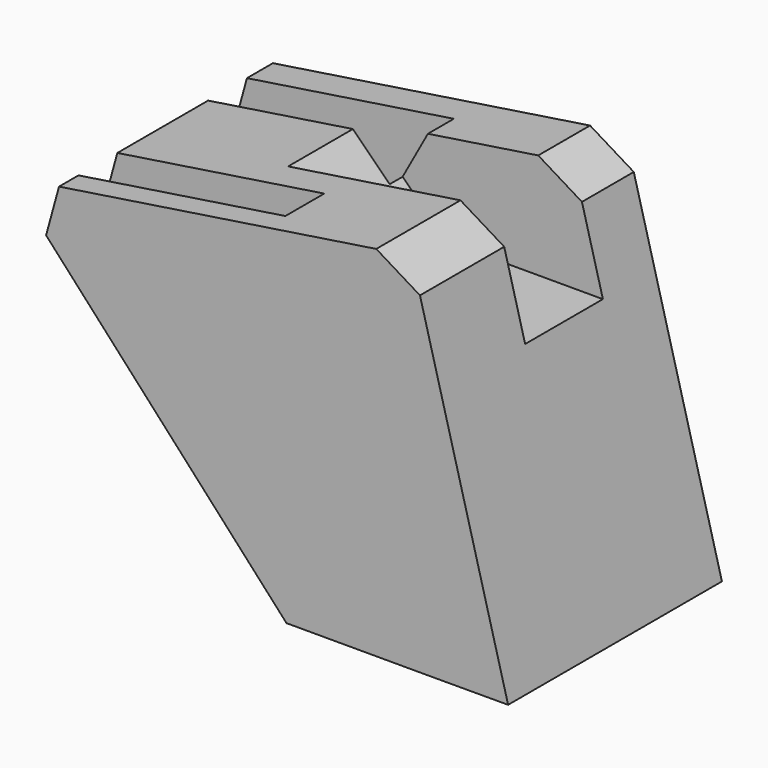
from build123d import *

# Parameters (mm, degrees)
PAD036_DEPTH = 6
PAD037_DEPTH = 6
PAD038_DEPTH = 12
PAD014_DEPTH = 20
PAD012_DEPTH = 33
PAD013_DEPTH = 20
PAD001_DEPTH = 33


with BuildPart() as pad036:
    # Sketch040 → Pad036 (new body)
    with BuildSketch(Plane.XZ.offset(4)):
        Polygon((-22.876627, -50.458862), (-2.795745, -40.418423), (3.522805, -28.90654), (-39.408733, -32.801537), align=None)
    extrude(amount=PAD036_DEPTH)


with BuildPart() as pad037:
    # Sketch041 → Pad037 (new body)
    with BuildSketch(Plane.XZ.offset(24)):
        Polygon((-22.876627, -50.458862), (-2.795745, -40.418423), (3.522805, -28.90654), (-39.408733, -32.801537), align=None)
    extrude(amount=PAD037_DEPTH)


with BuildPart() as pad038:
    # Sketch042 → Pad038 (new body)
    with BuildSketch(Plane.XZ.offset(8)):
        Polygon((26.854265, -42.508881), (4.226509, -42.508881), (-12.077076, -26.263317), (32.65625, -19.126871), align=None)
    extrude(amount=PAD038_DEPTH)


with BuildPart() as pad014:
    # Sketch018 → Pad014 (new body)
    with BuildSketch(Plane(origin=(10, -7, 0), x_dir=(1, 0, 0), z_dir=(0, -1, 0))):
        Polygon((12.921668, -76.043343), (12.921668, -72.681298), (10.907037, -71.064545), (12.949577, -67.987406), (17.894252, -67.987406), (19.953335, -71.012405), (17.993304, -72.648705), (17.981073, -76.043343), align=None)
    extrude(amount=PAD014_DEPTH)


with BuildPart() as pad012:
    # Sketch016 → Pad012 (new body)
    with BuildSketch(Plane.XZ):
        Polygon((31.922119, -73.764191), (34.715668, -84.347412), (31.00419, -84.347412), (29.994871, -83.010223), (29.004835, -82.997353), (29.97435, -84.356453), (27.001257, -84.356453), (25.99424, -83.013763), (24.977634, -83.013763), (26.003832, -84.375633), (23.007538, -84.375633), (22.019703, -83.023636), (20.974325, -83.023636), (22.000523, -84.366325), (19.017838, -84.366325), (17.99164, -83.004456), (16.984625, -83.004456), (18.00123, -84.366325), (15.032244, -84.366325), (14.013124, -83.020378), (12.982291, -83.020378), (14.00141, -84.379204), (12.681671, -84.379204), (4.650895, -73.764191), align=None)
    extrude(amount=PAD012_DEPTH)


with BuildPart() as fusion:
    # Sketch017 → Pad013 (new body)
    with BuildSketch(Plane(origin=(-4, -7, 0), x_dir=(1, 0, 0), z_dir=(0, -1, 0))):
        Polygon((12.921668, -76.043343), (12.921668, -72.681298), (10.907037, -71.064545), (12.949577, -67.987406), (17.894252, -67.987406), (19.953335, -71.012405), (17.993304, -72.648705), (17.981073, -76.043343), align=None)
    extrude(amount=PAD013_DEPTH)

    # Fusion001: union Pad012
    add(pad012.part)

    # Fusion: union Pad014
    add(pad014.part)


with BuildPart() as cut009:
    # Sketch001 → Pad001 (new body)
    with BuildSketch(Plane(origin=(-15, 0, -10), x_dir=(0.819152, 0, 0.573576), z_dir=(0, -1, 0))):
        Polygon((-26.184557, -19.824878), (-21.536683, -15.979609), (13.963177, -33.561758), (16.497322, -39.355457), (1.912507, -79.157962), (-20.506964, -63.527428), align=None)
    extrude(amount=PAD001_DEPTH)

    # Cut: cut Fusion
    add(fusion.part, mode=Mode.SUBTRACT)

    # Cut007: cut Pad038
    add(pad038.part, mode=Mode.SUBTRACT)

    # Cut008: cut Pad037
    add(pad037.part, mode=Mode.SUBTRACT)

    # Cut009: cut Pad036
    add(pad036.part, mode=Mode.SUBTRACT)


solid = cut009.part
